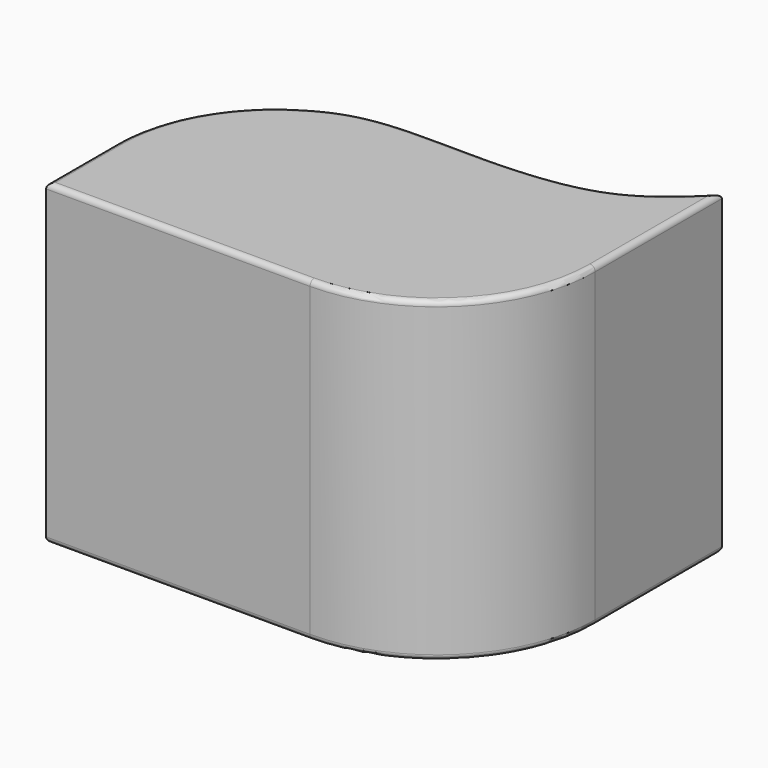
from build123d import *

# Parameters (mm, degrees)
F1_DEPTH = 76.2
F2_R     = 38.1
F3_R     = 1.27
F4_R     = 13.3186295464
F5_DEPTH = 50.8010001


with BuildPart() as f1:
    # F0 (on Top) → F1 (new body)
    with BuildSketch(Plane.XY):
        with BuildLine():
            Line((50.8, -38.1), (50.8, 38.1))
            add(Edge.make_bspline(
                [(-50.8, 0), (-42.9578186496, 7.6088566123), (-27.7925786216, 22.3228909539), (-0.3325914479, 21.3832091321), (34.1809209144, 21.8501210604), (45.6546344586, 33.0689548857), (50.8, 38.1)],
                knots=[0, 0, 0, 0, 0.2616576069, 0.5059943202, 0.7784647329, 1, 1, 1, 1], degree=3))
            Line((-50.8, 0), (-50.8, -38.1))
            Line((-50.8, -38.1), (50.8, -38.1))
        make_face()
    extrude(amount=F1_DEPTH)

    # F2
    f2_edges = [f1.edges().sort_by_distance(p)[0] for p in [
        (50.8, -38.1, 38.1),
        (-50.8, 0, 38.1),
    ]]
    fillet(f2_edges, radius=F2_R)

    # F3
    f3_edges = [f1.edges().sort_by_distance(p)[0] for p in [
        (9.791993, 21.686914, 76.2),
        (-19.05, -38.1, 76.2),
        (39.640768, -26.940768, 76.2),
        (-19.05, -38.1, 0),
        (9.791993, 21.686914, 0),
    ]]
    fillet(f3_edges, radius=F3_R)

    # F4 (on Right) → F5 (cut, through all)
    with BuildSketch(Plane.YZ):
        with Locations((0, 39.7054702044)):
            Circle(F4_R)
    extrude(amount=-F5_DEPTH, mode=Mode.SUBTRACT)


solid = f1.part
